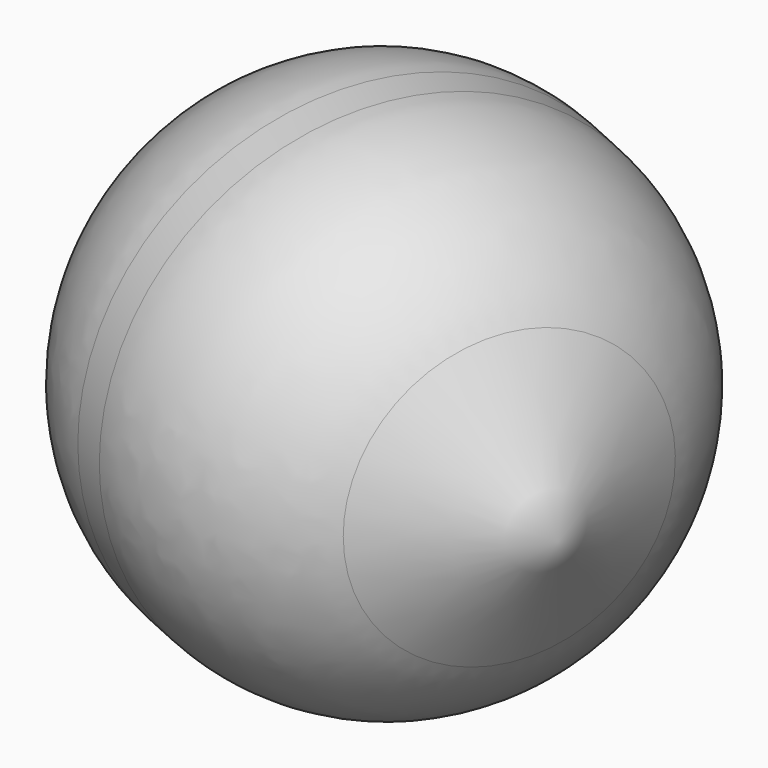
from build123d import *

# Parameters (mm, degrees)
F2_R = 21.33153533


with BuildPart() as f1:
    # F0 (on Top) → F1 (revolve)
    with BuildSketch(Plane.XY):
        Polygon((2.7789862394, -27.9643926066), (25.6073675184, -11.5755236232), (-25.6073675184, 11.5755236232), (-22.8283812791, -16.3888689834), align=None)
    revolve(axis=Axis((0, 0, 0), (0.9112249686, -0.4119090392, 0)))

    # F2
    f2_edges = [f1.edges().sort_by_distance(p)[0] for p in [
        (22.828381, 16.388869, 0),
        (-2.778986, 27.964393, 0),
    ]]
    fillet(f2_edges, radius=F2_R)


solid = f1.part
